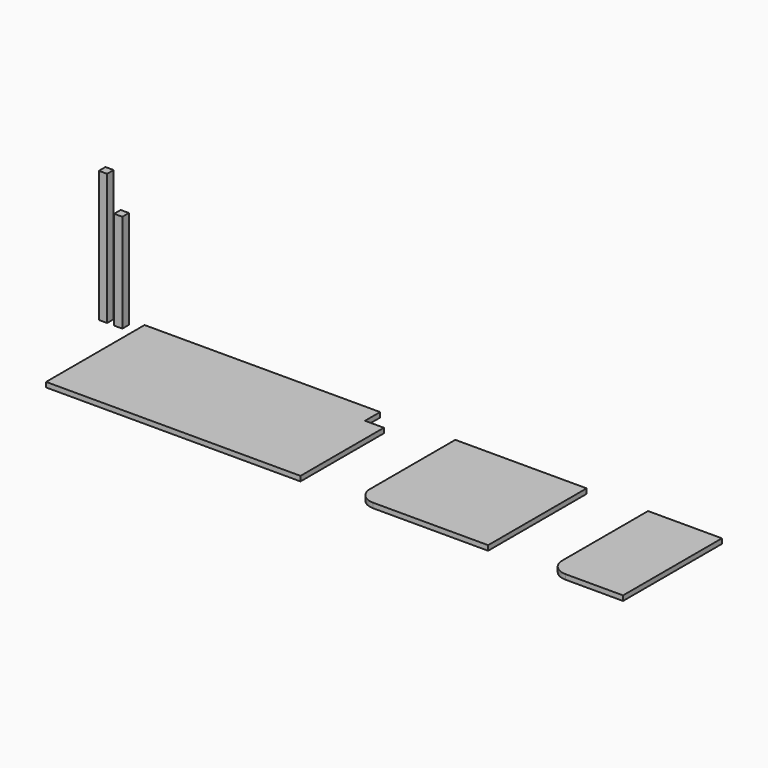
from build123d import *

# Parameters (mm, degrees)
F1_W     = 800
F1_H     = 750
F2_DEPTH = 30
F3_R     = 100
F4_W     = 50
F4_H     = 50
F5_DEPTH = 800
F6_W     = 50
F6_H     = 50
F7_DEPTH = 600
F8_W     = 450
F8_H     = 753
F9_DEPTH = 30
F10_R    = 100


with BuildPart() as f2:
    # F1 (on Top) + F0 (on Top) → F2 (new body)
    with BuildSketch(Plane.XY):
        with Locations((743.117574, -375)):
            Rectangle(F1_W, F1_H)
    with BuildSketch(Plane.XY):
        Polygon((-115, -115), (-115, 0), (-1550, 0), (-1550, -750), (0, -750), (0, -115), align=None)
    extrude(amount=F2_DEPTH)

    # F3
    f3_edges = [f2.edges().sort_by_distance(p)[0] for p in [
        (343.117574, -750, 15),
    ]]
    fillet(f3_edges, radius=F3_R)


with BuildPart() as f5:
    # F4 (on Top) → F5 (new body)
    with BuildSketch(Plane.XY):
        with Locations((-1763.33228, -25)):
            Rectangle(F4_W, F4_H)
    extrude(amount=F5_DEPTH)


with BuildPart() as f7:
    # F6 (on Top) → F7 (new body)
    with BuildSketch(Plane.XY):
        with Locations((-1670.265808, -25)):
            Rectangle(F6_W, F6_H)
    extrude(amount=F7_DEPTH)


with BuildPart() as f9:
    # F8 (on Top) → F9 (new body)
    with BuildSketch(Plane.XY):
        with Locations((1742.489915, -376.5)):
            Rectangle(F8_W, F8_H)
    extrude(amount=F9_DEPTH)

    # F10
    f10_edges = [f9.edges().sort_by_distance(p)[0] for p in [
        (1517.489915, -753, 15),
    ]]
    fillet(f10_edges, radius=F10_R)


solid = Compound([f2.part, f5.part, f7.part, f9.part])
